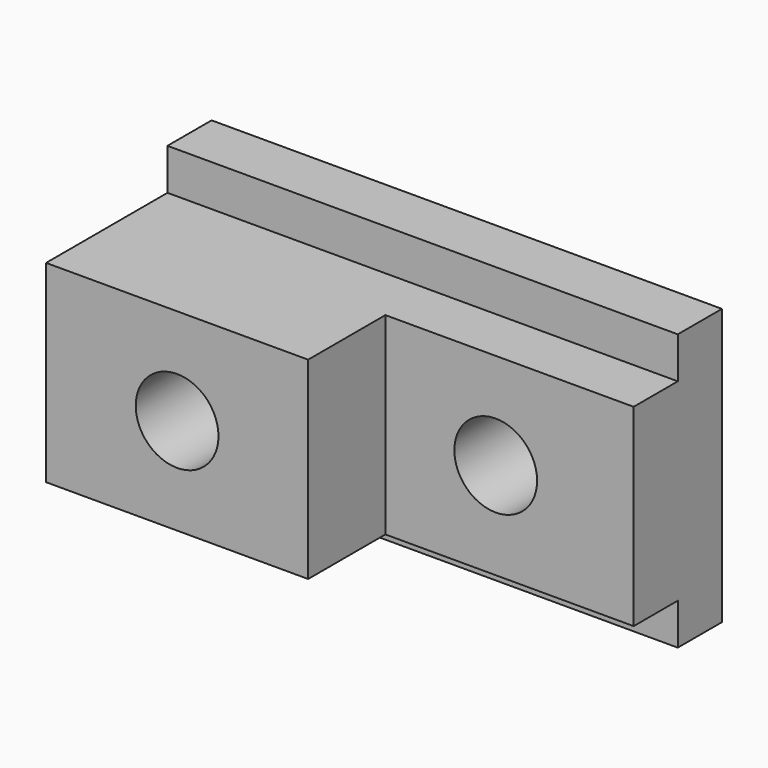
from build123d import *

# Parameters (mm, degrees)
F0_W     = 60.325
F0_H     = 44.45
F0_R     = 9.525
F1_DEPTH = 47.625
F2_DEPTH = 25.4
F3_DEPTH = 12.7


with BuildPart() as f1:
    # F0 (on Front) → F1 (new body)
    with BuildSketch(Plane.XZ):
        with Locations((-28.575, -0.766896)):
            Rectangle(F0_W, F0_H)
        with Locations((-28.575, -0.766896)):
            Circle(F0_R, mode=Mode.SUBTRACT)
    extrude(amount=F1_DEPTH)

    # F0 (on Front) → F2 (join)
    with BuildSketch(Plane.XZ):
        Polygon((58.7375, -22.991896), (58.7375, 21.458104), (26.9875, 21.458104), (1.5875, 21.458104), (1.5875, -22.991896), align=None)
        with Locations((26.9875, -0.766896)):
            Circle(F0_R, mode=Mode.SUBTRACT)
    extrude(amount=F2_DEPTH)

    # F0 (on Front) → F3 (join)
    with BuildSketch(Plane.XZ):
        Polygon((58.7375, 30.983104), (-58.7375, 30.983104), (-58.7375, 21.458104), (1.5875, 21.458104), (26.9875, 21.458104), (58.7375, 21.458104), align=None)
        Polygon((1.5875, -22.991896), (-58.7375, -22.991896), (-58.7375, -32.516896), (58.7375, -32.516896), (58.7375, -22.991896), align=None)
    extrude(amount=F3_DEPTH)


solid = f1.part
